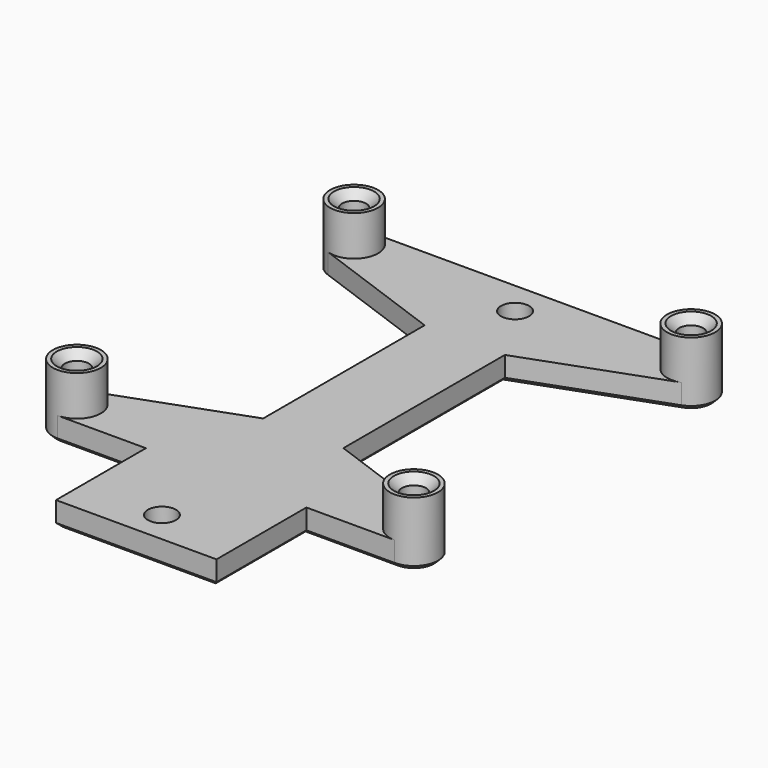
from build123d import *

# Parameters (mm, degrees)
CYLINDER005_R     = 3
CYLINDER005_DEPTH = 8
PAD011_DEPTH      = 3
CYLINDER006_R     = 3
CYLINDER006_DEPTH = 8
SKETCH039_R       = 1.5
POCKET027_DEPTH   = 10
CHAMFER026_SIZE   = 1
SKETCH038_R       = 1.75
POCKET026_DEPTH   = 5
CHAMFER025_SIZE   = 0.5


with BuildPart() as keypadbracketscrewcylinder002:
    # Cylinder005 → Cylinder005 (new body)
    with BuildSketch(Plane(origin=(21, 13.5, 18), x_dir=(1, 0, 0), z_dir=(0, 0, 1))):
        Circle(CYLINDER005_R)
    extrude(amount=CYLINDER005_DEPTH)


with BuildPart() as keypadbracketpad008:
    # Sketch037 → Pad011 (new body)
    with BuildSketch(Plane.XY.offset(18)):
        with BuildLine():
            Line((0, -3.5), (10, -3.5))
            Line((10, -3.5), (10, 10.5))
            Line((10, 10.5), (21, 10.5))
            ThreePointArc((21, 10.5), (23.954423, 12.979055), (22.02606, 16.319078))
            Line((22.02606, 16.319078), (5, 22.516057))
            Line((5, 22.516057), (5, 47.663943))
            Line((5, 47.663943), (22.02606, 53.860922))
            ThreePointArc((22.02606, 53.860922), (23.954423, 57.200945), (21, 59.68))
            Line((21, 59.68), (0, 59.68))
            Line((0, 59.68), (0, -3.5))
        make_face()
    extrude(amount=PAD011_DEPTH)


with BuildPart() as keypadbracketscrewholeschamfer019:
    # Cylinder006 → Cylinder006 (new body)
    with BuildSketch(Plane(origin=(21, 56.68, 18), x_dir=(1, 0, 0), z_dir=(0, 0, 1))):
        Circle(CYLINDER006_R)
    extrude(amount=CYLINDER006_DEPTH)

    # Fusion005: union KeypadBracketScrewCylinder002, KeypadBracketPad008
    add(keypadbracketscrewcylinder002.part)
    add(keypadbracketpad008.part)

    # Sketch039 → Pocket027 (cut)
    with BuildSketch(Plane.XY.offset(26)):
        with Locations((21, 13.5)):
            Circle(SKETCH039_R)
        with Locations((21, 56.68)):
            Circle(SKETCH039_R)
    extrude(amount=-POCKET027_DEPTH, mode=Mode.SUBTRACT)

    # Chamfer026
    chamfer026_edges = [keypadbracketscrewholeschamfer019.edges().sort_by_distance(p)[0] for p in [
        (19.5, 56.68, 26),
        (19.5, 13.5, 26),
    ]]
    chamfer(chamfer026_edges, length=CHAMFER026_SIZE)


with BuildPart() as clone008:
    # Part__Mirroring005: instance of KeypadBracketScrewHolesChamfer019
    add(keypadbracketscrewholeschamfer019.part.mirror(Plane(origin=(0, 0, 0), x_dir=(0, -1, 0), z_dir=(1, 0, 0))))

    # Fusion006: union KeypadBracketScrewHolesChamfer019
    add(keypadbracketscrewholeschamfer019.part)

    # Sketch038 → Pocket026 (cut)
    with BuildSketch(Plane.XY.offset(21)):
        with Locations((0, 0.5)):
            Circle(SKETCH038_R)
        with Locations((0, 55.5)):
            Circle(SKETCH038_R)
    extrude(amount=-POCKET026_DEPTH, mode=Mode.SUBTRACT)

    # Chamfer025
    chamfer025_edges = [clone008.edges().sort_by_distance(p)[0] for p in [
        (-21, 15, 18),
        (-21, 12, 18),
        (0, 57.25, 18),
        (0, 53.75, 18),
        (0, 2.25, 18),
        (0, -1.25, 18),
        (-23.12132, 58.80132, 18),
        (-23.457456, 54.959271, 18),
        (0, 59.68, 18),
        (-13.51303, 50.762433, 18),
        (23.12132, 58.80132, 18),
        (-5, 35.09, 18),
        (23.457456, 54.959271, 18),
        (-13.51303, 19.417567, 18),
        (13.51303, 50.762433, 18),
        (-23.457456, 15.220729, 18),
        (5, 35.09, 18),
        (-23.12132, 11.37868, 18),
        (13.51303, 19.417567, 18),
        (-15.5, 10.5, 18),
        (23.457456, 15.220729, 18),
        (-10, 3.5, 18),
        (23.12132, 11.37868, 18),
        (0, -3.5, 18),
        (15.5, 10.5, 18),
        (10, 3.5, 18),
        (-21, 58.18, 18),
        (-21, 55.18, 18),
        (21, 58.18, 18),
        (21, 55.18, 18),
        (21, 15, 18),
        (21, 12, 18),
    ]]
    chamfer(chamfer025_edges, length=CHAMFER025_SIZE)


with BuildPart() as clone008_1:
    # Clone008 placement: moved
    add(clone008.part.moved(Location((-231.4, 30, -56))))


solid = clone008_1.part
